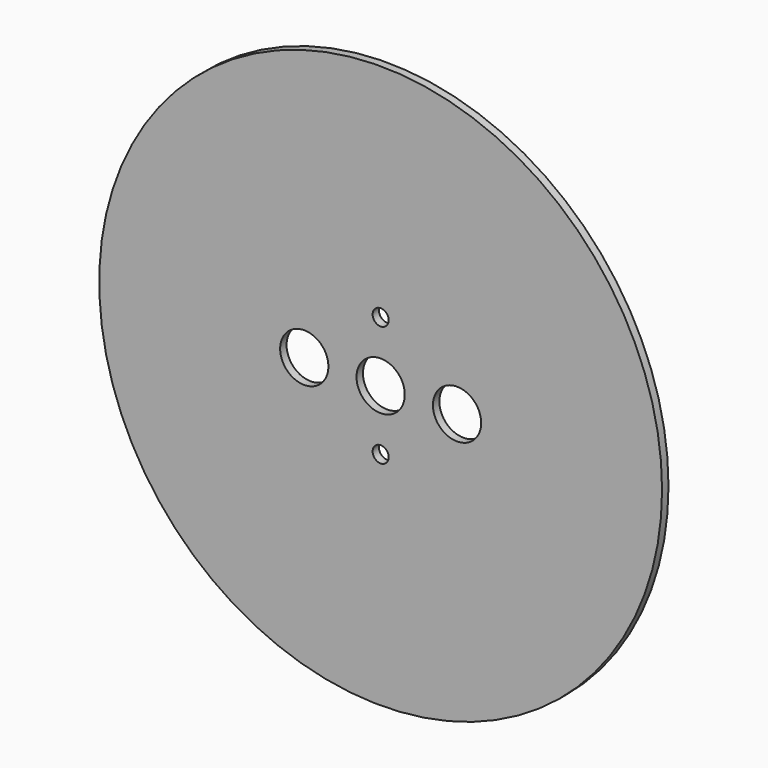
from build123d import *

# Parameters (mm, degrees)
F0_R     = 35
F1_DEPTH = 1
F4_D     = 6
F5_D     = 2


with BuildPart() as f1:
    # F0 (on Front) → F1 (new body)
    with BuildSketch(Plane.XZ):
        Circle(F0_R)
    extrude(amount=F1_DEPTH)

    # F4 (through all)
    with Locations(Plane.XZ.offset(4.318)):
        with Locations((-9.5, 0), (9.5, 0), (0, 0)):
            Hole(F4_D / 2)

    # F5 (through all)
    with Locations(Plane.XZ.offset(4.318)):
        with Locations((0, 7.5), (0, -7.5)):
            Hole(F5_D / 2)


solid = f1.part
